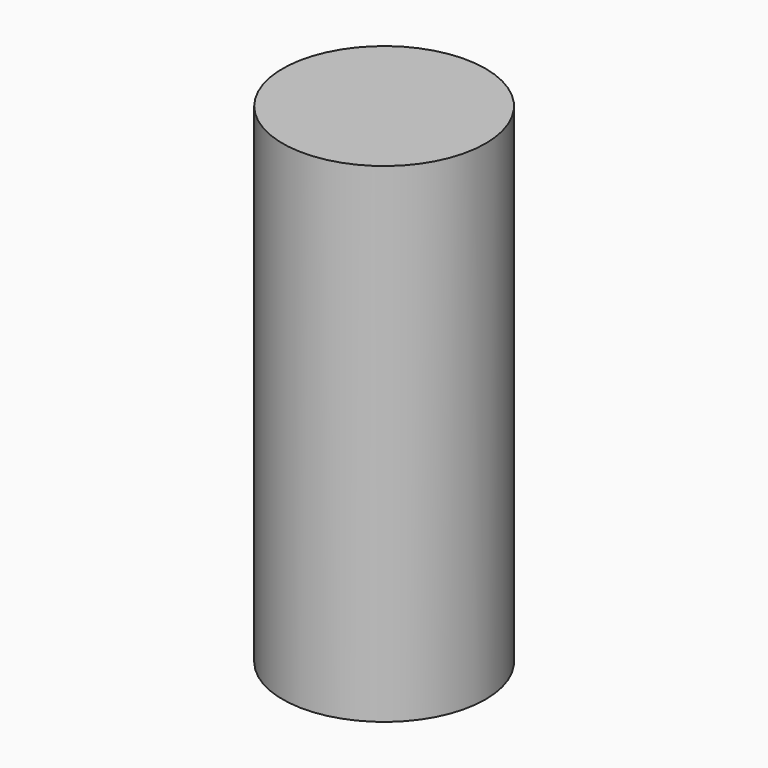
from build123d import *

# Parameters (mm, degrees)
F0_R     = 8.5
F1_DEPTH = 41


with BuildPart() as f1:
    # F0 (on Top) → F1 (new body)
    with BuildSketch(Plane.XY):
        with Locations((0, -5)):
            Circle(F0_R)
    extrude(amount=-F1_DEPTH)


solid = f1.part
